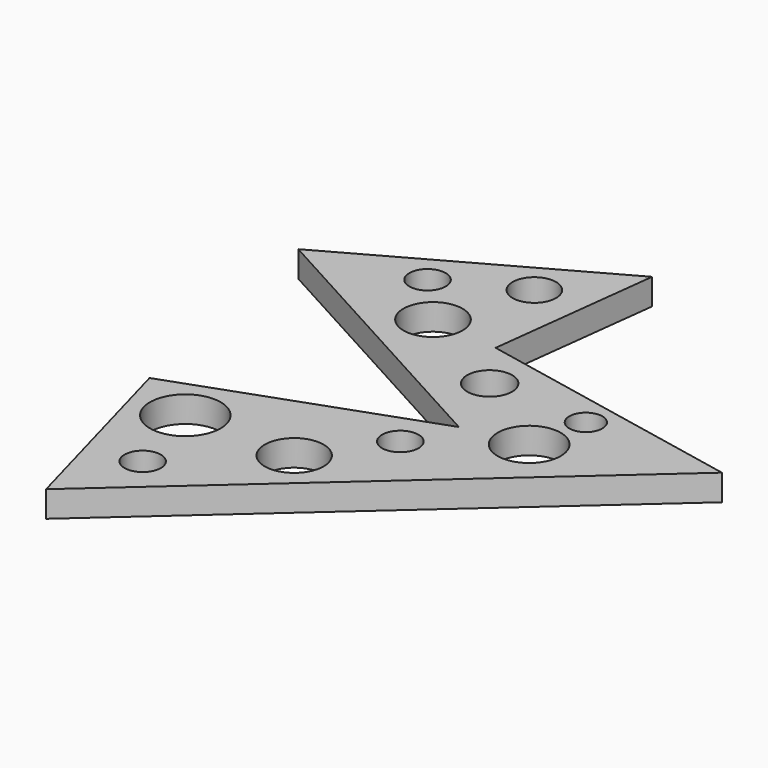
from build123d import *

# Parameters (mm, degrees)
F0_R     = 2.6543
F0_R_2   = 5.1689
F0_R_3   = 4.3053
F0_R_4   = 2.667
F0_R_5   = 4.318
F0_R_6   = 3.175
F0_R_7   = 3.279746
F0_R_8   = 4.6101
F0_R_9   = 2.413
F1_DEPTH = 3.81


with BuildPart() as f1:
    # F0 (on Top) → F1 (new body)
    with BuildSketch(Plane.XY):
        Polygon((5.466523, 12.92087), (8.448261, 37.768696), (-27.33261, 17.890435), (14.411738, -4.969565), (-20.706521, -17.55913), (-12.755217, -46.382606), (44.891741, 4.969565), align=None)
        with Locations((-8.448262, -34.124348)):
            Circle(F0_R, mode=Mode.SUBTRACT)
        with Locations((-11.761305, -22.197392)):
            Circle(F0_R_2, mode=Mode.SUBTRACT)
        with Locations((4.141306, -22.197392)):
            Circle(F0_R_3, mode=Mode.SUBTRACT)
        with Locations((11.43, -11.926956)):
            Circle(F0_R_4, mode=Mode.SUBTRACT)
        with Locations((-4.472609, 13.914783)):
            Circle(F0_R_5, mode=Mode.SUBTRACT)
        with Locations((-11.098696, 21.203479)):
            Circle(F0_R, mode=Mode.SUBTRACT)
        with Locations((0, 26.835654)):
            Circle(F0_R_6, mode=Mode.SUBTRACT)
        with Locations((10.436087, 5.632174)):
            Circle(F0_R_7, mode=Mode.SUBTRACT)
        with Locations((23.356957, -3.313044)):
            Circle(F0_R_8, mode=Mode.SUBTRACT)
        with Locations((25.013478, 4.969565)):
            Circle(F0_R_9, mode=Mode.SUBTRACT)
    extrude(amount=F1_DEPTH)


solid = f1.part
